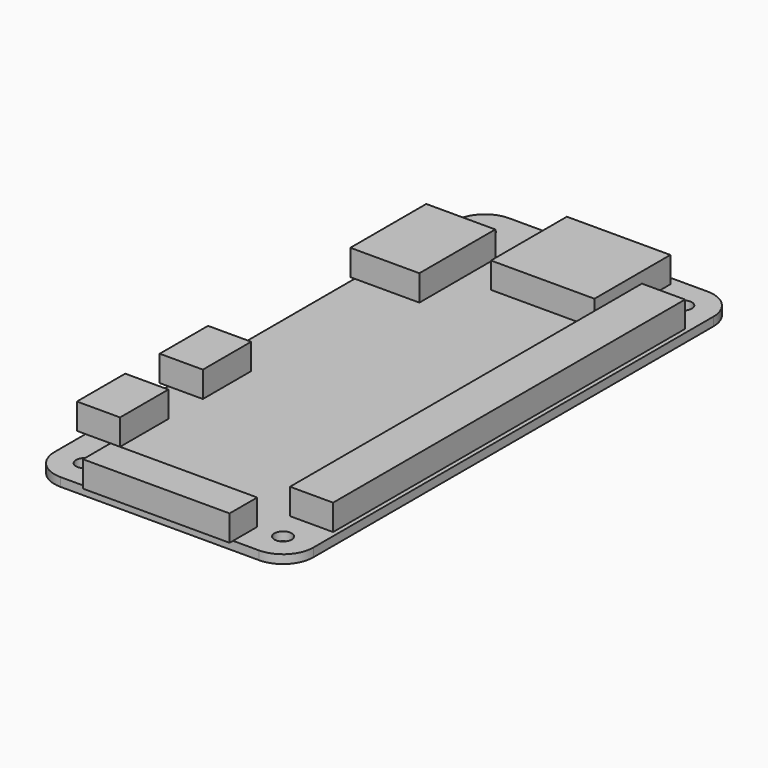
from build123d import *

# Parameters (mm, degrees)
F0_R     = 1
F1_DEPTH = 1
F2_W     = 12
F2_H     = 11
F2_W_2   = 8
F2_W_3   = 5
F2_H_2   = 7
F2_W_4   = 17
F2_H_3   = 4
F2_H_4   = 51
F3_DEPTH = 3


with BuildPart() as f1:
    # F0 (on Top) → F1 (new body)
    with BuildSketch(Plane.XY):
        with BuildLine():
            Line((13.121015, 32.100138), (-9.878985, 32.100138))
            ThreePointArc((-9.878985, 32.100138), (-12.353858, 31.075012), (-13.378985, 28.600138))
            Line((-13.378985, 28.600138), (-13.378985, -29.399862))
            ThreePointArc((-13.378985, -29.399862), (-12.353858, -31.874736), (-9.878985, -32.899862))
            Line((-9.878985, -32.899862), (13.121015, -32.899862))
            ThreePointArc((13.121015, -32.899862), (15.595889, -31.874736), (16.621015, -29.399862))
            Line((16.621015, -29.399862), (16.621015, 28.600138))
            ThreePointArc((16.621015, 28.600138), (15.595889, 31.075012), (13.121015, 32.100138))
        make_face()
        with Locations((-9.878985, -29.399862)):
            Circle(F0_R, mode=Mode.SUBTRACT)
        with Locations((13.121015, -29.399862)):
            Circle(F0_R, mode=Mode.SUBTRACT)
        with Locations((-9.878985, 28.600138)):
            Circle(F0_R, mode=Mode.SUBTRACT)
        with Locations((13.121015, 28.600138)):
            Circle(F0_R, mode=Mode.SUBTRACT)
    extrude(amount=F1_DEPTH)

    # F2 (on face) → F3 (join)
    with BuildSketch(Plane.XY.offset(1)):
        with Locations((3.621015, 25.600138)):
            Rectangle(F2_W, F2_H)
        with Locations((-9.878985, 19.600138)):
            Rectangle(F2_W_2, F2_H)
        with Locations((-11.878985, -21.399862)):
            Rectangle(F2_W_3, F2_H_2)
        with Locations((-11.878985, -9.399862)):
            Rectangle(F2_W_3, F2_H_2)
        with Locations((1.621015, -31.399862)):
            Rectangle(F2_W_4, F2_H_3)
        with Locations((13.621015, -0.399862)):
            Rectangle(F2_W_3, F2_H_4)
    extrude(amount=F3_DEPTH)


solid = f1.part
